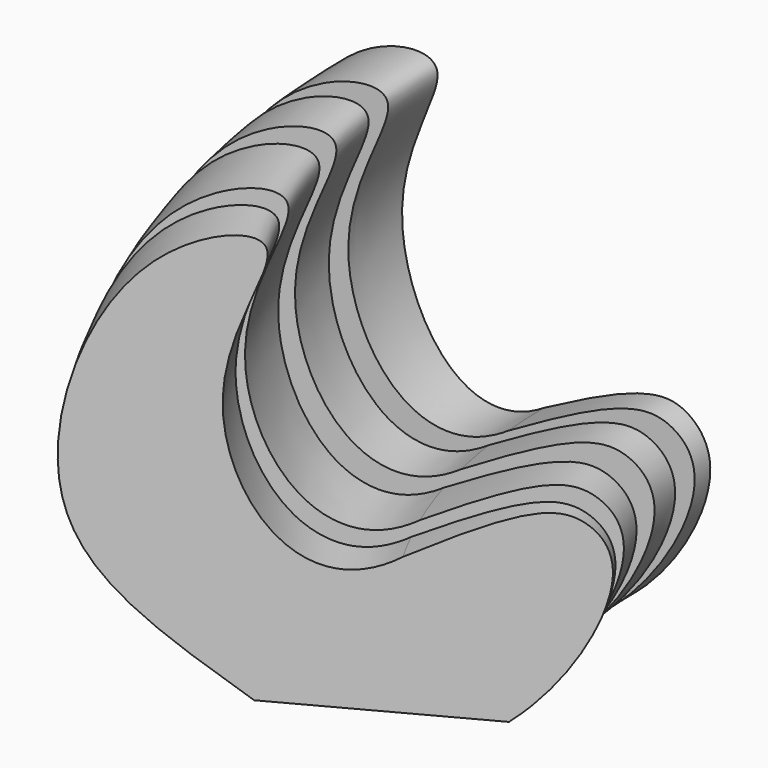
from build123d import *

# Parameters (mm, degrees)
F1_ANGLE = 30
F3_DEPTH = 151.13


with BuildPart() as f1:
    # F0 (on Front) → F1 (revolve)
    with BuildSketch(Plane.XZ):
        with BuildLine():
            add(Edge.make_bspline(
                [(-33.113759011, -76.251141727), (-52.3524027697, -62.3772113833), (-81.4597117152, -41.6463503805), (-60.9669425672, 21.0557324815), (-19.4253639779, 27.6520006151), (-51.9221600054, -11.0990766147), (-24.5232182487, -55.867846468), (-4.3336069211, -43.084282428)],
                knots=[0, 0, 0, 0, 0.2310103702, 0.4595736979, 0.6050462504, 0.7898750294, 1, 1, 1, 1], degree=3))
            Line((-33.113759011, -76.251141727), (16.1488458233, -77.054432265))
            add(Edge.make_bspline(
                [(-4.3336069211, -43.084282428), (18.1795473238, -31.0236641971), (29.1223441647, -28.8334876239), (40.8658212705, -44.0614323464), (28.0623661518, -67.8569367871), (16.1488458233, -77.054432265)],
                knots=[0, 0, 0, 0, 0.3832561653, 0.6007362818, 1, 1, 1, 1], degree=3))
        make_face()
    revolve(axis=Axis((125.8134096861, 0, 102.2696532309), (0, 0, 1)), revolution_arc=F1_ANGLE)


with BuildPart() as f3:
    # F2 (on Top) → F3 (new body, symmetric)
    with BuildSketch(Plane.XY):
        Polygon((62.527118609, -10.3388018906), (44.4716364145, -3.5798437893), (-92.3972651362, -26.8137622625), (-92.3972651362, -34.4175882638), (44.8940731585, -10.3388018906), (46.2130830278, -17.8594728819), (-88.5953530669, -52.1598532796), (-86.8039693782, -59.2004059124), (47.0062457025, -26.8137622625), (48.6685013082, -33.6816174968), (-78.456915915, -85.954643786), (-75.7130610694, -92.6275632017), (62.527118609, -35.7842292375), align=None)
    extrude(amount=F3_DEPTH, both=True)


with BuildPart() as f1_1:
    add(f1.part)

    # F4: cut F3
    add(f3.part, mode=Mode.SUBTRACT)


solid = f1_1.part
